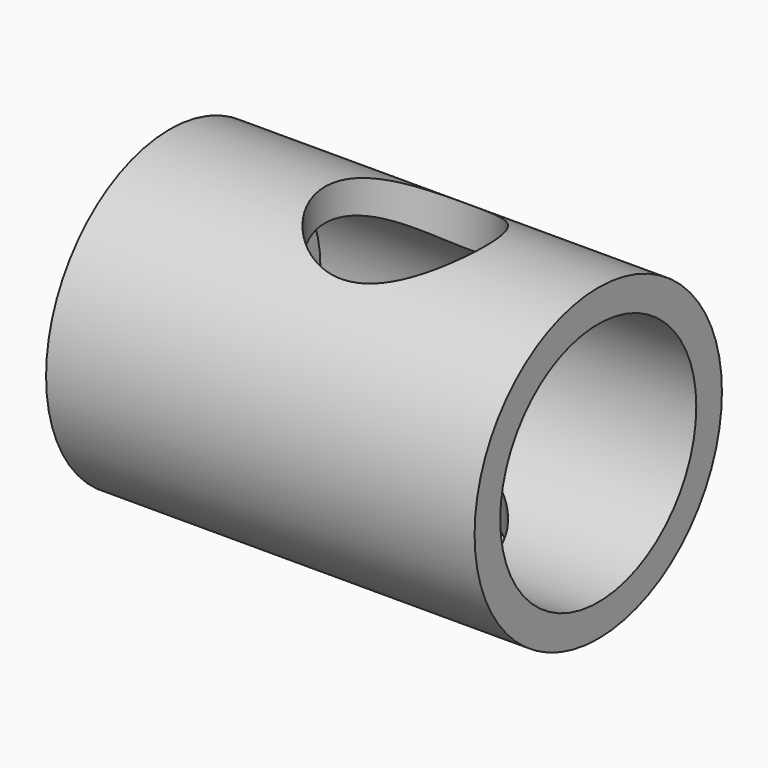
from build123d import *

# Parameters (mm, degrees)
F0_R     = 6.1849
F0_R_2   = 4.9022
F0_R_3   = 3.0099
F1_DEPTH = 2.1082
F2_DEPTH = 17.145
F3_R     = 3.2131
F4_DEPTH = 12.7


with BuildPart() as f1:
    # F0 (on Right) → F1 (new body)
    with BuildSketch(Plane.YZ):
        Circle(F0_R)
        Circle(F0_R_2, mode=Mode.SUBTRACT)
        Circle(F0_R_2)
        Circle(F0_R_3, mode=Mode.SUBTRACT)
    extrude(amount=F1_DEPTH)

    # F0 (on Right) → F2 (join)
    with BuildSketch(Plane.YZ):
        Circle(F0_R)
        Circle(F0_R_2, mode=Mode.SUBTRACT)
    extrude(amount=F2_DEPTH)

    # F3 (on Top) → F4 (cut, symmetric)
    with BuildSketch(Plane.XY):
        with Locations((9.4234, 0)):
            Circle(F3_R)
    extrude(amount=F4_DEPTH, both=True, mode=Mode.SUBTRACT)


solid = f1.part
